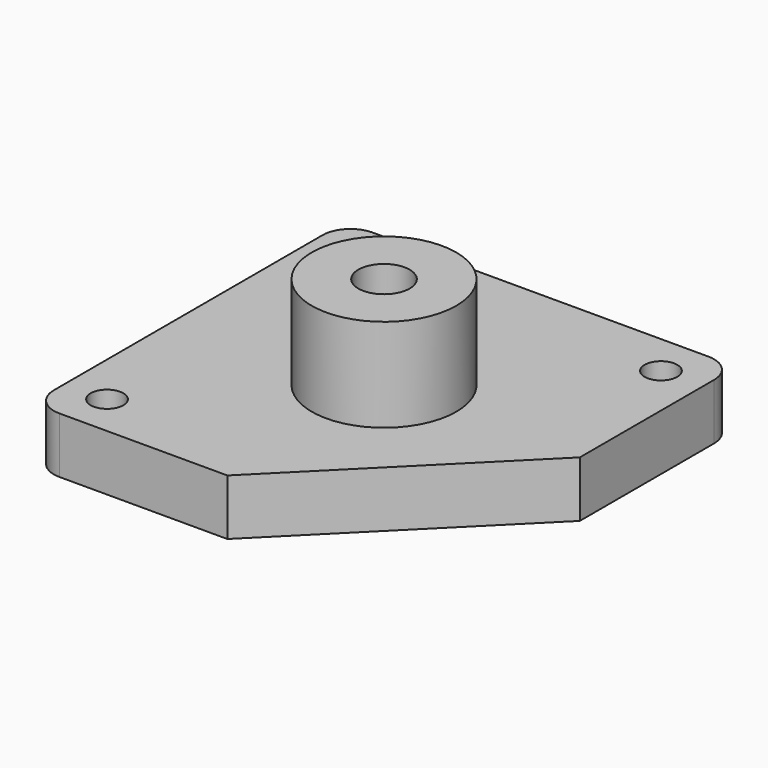
from build123d import *

# Parameters (mm, degrees)
F0_R     = 1.75
F0_R_2   = 2.75
F1_DEPTH = 6
F3_DEPTH = 25
F4_R     = 7.75
F4_R_2   = 2.75
F5_DEPTH = 10


with BuildPart() as f1:
    # F0 (on Top) → F1 (new body)
    with BuildSketch(Plane.XY):
        with BuildLine():
            ThreePointArc((21, 18), (20.12132, 20.12132), (18, 21))
            Line((18, 21), (-18, 21))
            ThreePointArc((-18, 21), (-20.12132, 20.12132), (-21, 18))
            Line((-21, 18), (-21, -18))
            ThreePointArc((-21, -18), (-20.12132, -20.12132), (-18, -21))
            Line((-18, -21), (18, -21))
            ThreePointArc((18, -21), (20.12132, -20.12132), (21, -18))
            Line((21, -18), (21, 18))
        make_face()
        with Locations((-16.5, -16.5)):
            Circle(F0_R, mode=Mode.SUBTRACT)
        with Locations((16.5, -16.5)):
            Circle(F0_R, mode=Mode.SUBTRACT)
        with Locations((-16.5, 16.5)):
            Circle(F0_R, mode=Mode.SUBTRACT)
        Circle(F0_R_2, mode=Mode.SUBTRACT)
        with Locations((16.5, 16.5)):
            Circle(F0_R, mode=Mode.SUBTRACT)
    extrude(amount=F1_DEPTH)

    # F2 (on face) → F3 (cut)
    with BuildSketch(Plane.XY.offset(6)):
        Polygon((21, 0), (0, -21), (21, -21), align=None)
    extrude(amount=-F3_DEPTH, mode=Mode.SUBTRACT)

    # F4 (on face) → F5 (join)
    with BuildSketch(Plane.XY.offset(6)):
        Circle(F4_R)
        Circle(F4_R_2, mode=Mode.SUBTRACT)
    extrude(amount=F5_DEPTH)


solid = f1.part
